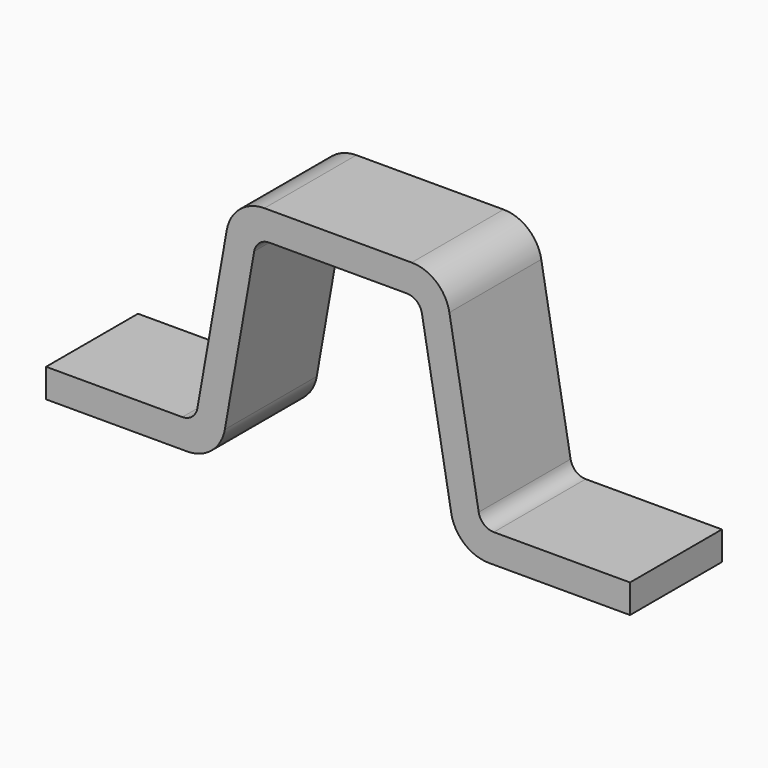
from build123d import *

# Parameters (mm, degrees)
F1_DEPTH = 38.1
F2_R     = 5.08
F3_R     = 12.7


with BuildPart() as f1:
    # F0 (on Front) → F1 (new body)
    with BuildSketch(Plane.XZ):
        Polygon((39.395954, -39.6875), (96.8375, -39.6875), (96.8375, -30.1625), (47.388378, -30.1625), (35.071938, 39.6875), (-35.071938, 39.6875), (-47.388378, -30.1625), (-96.8375, -30.1625), (-96.8375, -39.6875), (-39.395954, -39.6875), (-37.71644, -30.1625), (-27.079514, 30.1625), (27.079514, 30.1625), (37.71644, -30.1625), align=None)
    extrude(amount=F1_DEPTH)

    # F2
    f2_edges = [f1.edges().sort_by_distance(p)[0] for p in [
        (-27.079514, -19.05, 30.1625),
        (27.079514, -19.05, 30.1625),
        (47.388378, -19.05, -30.1625),
        (-47.388378, -19.05, -30.1625),
    ]]
    fillet(f2_edges, radius=F2_R)

    # F3
    f3_edges = [f1.edges().sort_by_distance(p)[0] for p in [
        (-39.395954, -19.05, -39.6875),
        (39.395954, -19.05, -39.6875),
        (35.071938, -19.05, 39.6875),
        (-35.071938, -19.05, 39.6875),
    ]]
    fillet(f3_edges, radius=F3_R)


solid = f1.part
